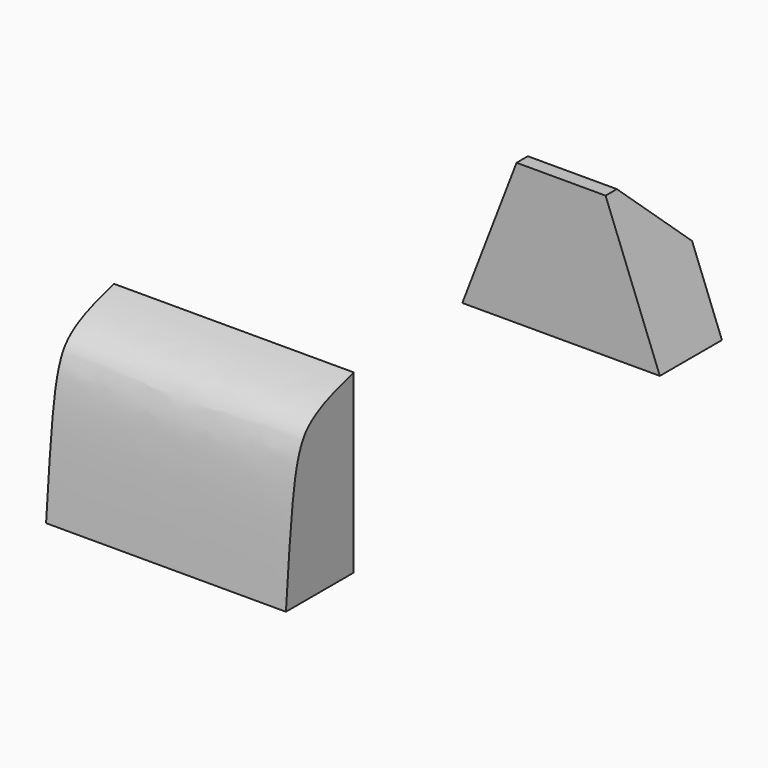
from build123d import *

# Parameters (mm, degrees)
PAD017_DEPTH = 15
PAD018_DEPTH = 10
PAD019_DEPTH = 10
PAD016_DEPTH = 17


with BuildPart() as body001003001004:
    # Sketch007 → Pad017 (new body, symmetric)
    with BuildSketch(Plane.YZ):
        Polygon((14.5, 0), (20, 0), (20, 5.5), (14.5, 11), align=None)
    extrude(amount=PAD017_DEPTH, both=True)


with BuildPart() as body001003001005:
    # Sketch008 → Pad018 (new body)
    with BuildSketch(Plane.XY):
        Polygon((-15, 14), (15, 14), (10, 20), (-11, 20), align=None)
    extrude(amount=PAD018_DEPTH)


with BuildPart() as top_cut:
    # Sketch009 → Pad019 (new body)
    with BuildSketch(Plane.XZ):
        Polygon((-7, 0), (7, 0), (2, 13), (-2, 13), align=None)
    extrude(amount=PAD019_DEPTH)


with BuildPart() as top_cut_1:
    # Body001003001006 placement: moved
    add(top_cut.part.moved(Location((0, 21, 0))))

    # Common: intersect Body001003001005
    add(body001003001005.part, mode=Mode.INTERSECT)

    # Common001: intersect Body001003001004
    add(body001003001004.part, mode=Mode.INTERSECT)


with BuildPart() as top_cut_2:
    # Common001 placement: moved
    add(top_cut_1.part.moved(Location((0, 0, 8.5))))


with BuildPart() as hollow_cut:
    # Sketch005 → Pad016 (new body)
    with BuildSketch(Plane.YZ):
        with BuildLine():
            Line((-14.5, 8.5), (-20.5, 8.5))
            add(Edge.make_bspline(
                [(-14.5, 21), (-18.275124, 20), (-19.5, 18.243359), (-20, 15.109323), (-20.5, 8.5)],
                knots=[0, 0, 0, 0, 0.5, 1, 1, 1, 1], degree=3))
            Line((-14.5, 21), (-14.5, 8.5))
        make_face()
    extrude(amount=PAD016_DEPTH)


with BuildPart() as hollow_cut_1:
    # Body001003001003 placement: moved
    add(hollow_cut.part.moved(Location((-8.5, 0, 0))))

    # Fusion: union top-cut
    add(top_cut_2.part)


solid = hollow_cut_1.part
